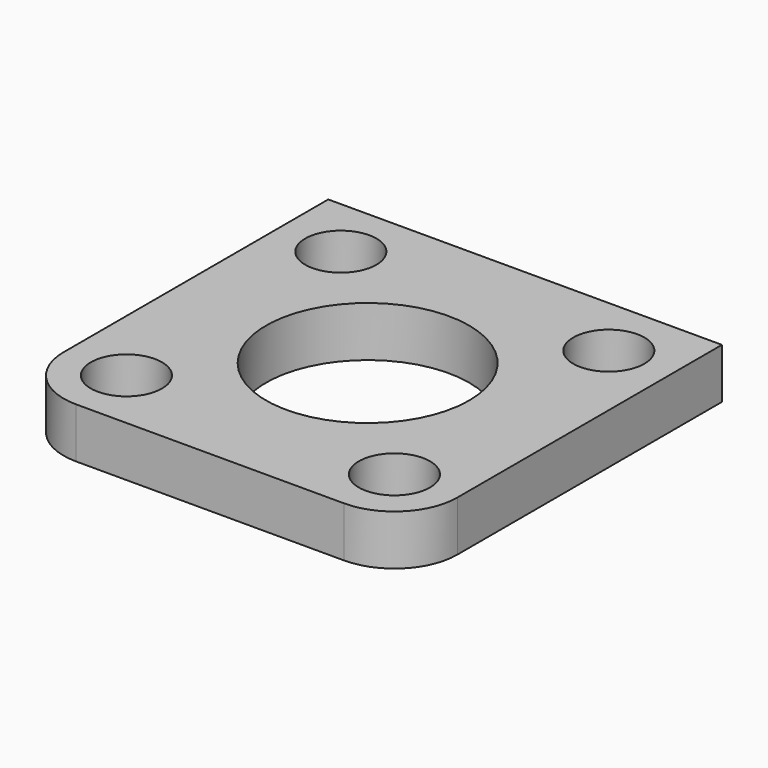
from build123d import *

# Parameters (mm, degrees)
F0_W     = 24.865282
F0_H     = 24.865282
F0_R     = 2.2479
F0_R_2   = 6.4135
F1_DEPTH = 3.175
F2_R     = 3.96875


with BuildPart() as f1:
    # F0 (on Top) → F1 (new body)
    with BuildSketch(Plane.XY):
        Rectangle(F0_W, F0_H)
        with Locations((-8.463891, -8.463891)):
            Circle(F0_R, mode=Mode.SUBTRACT)
        with Locations((8.463891, -8.463891)):
            Circle(F0_R, mode=Mode.SUBTRACT)
        with Locations((-8.463891, 8.463891)):
            Circle(F0_R, mode=Mode.SUBTRACT)
        Circle(F0_R_2, mode=Mode.SUBTRACT)
        with Locations((8.463891, 8.463891)):
            Circle(F0_R, mode=Mode.SUBTRACT)
    extrude(amount=F1_DEPTH)

    # F2
    f2_edges = [f1.edges().sort_by_distance(p)[0] for p in [
        (12.432641, -12.432641, 1.5875),
        (-12.432641, -12.432641, 1.5875),
    ]]
    fillet(f2_edges, radius=F2_R)


solid = f1.part
